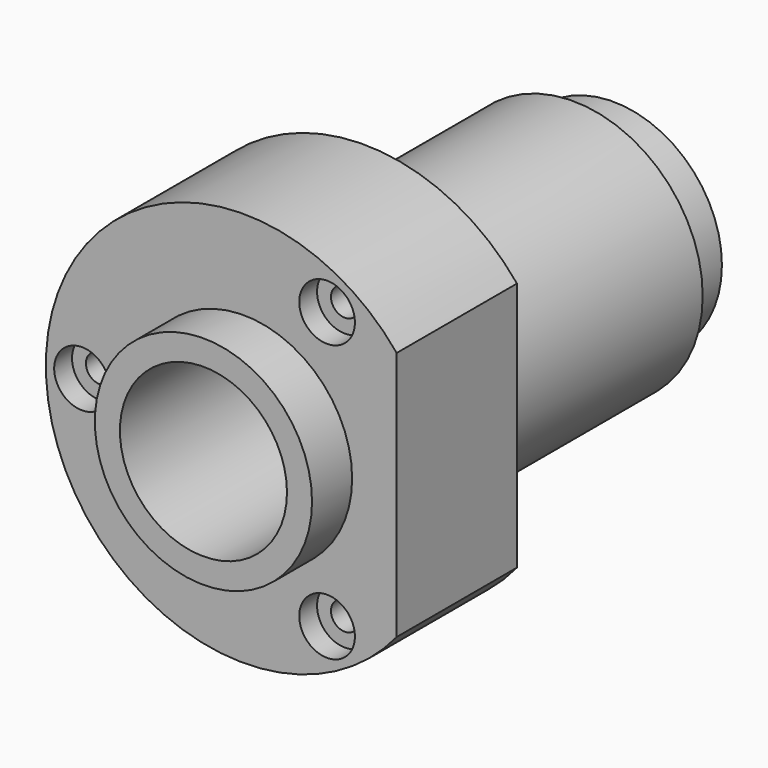
from build123d import *

# Parameters (mm, degrees)
F0_R     = 19.5
F0_R_2   = 15
F1_DEPTH = 9
F2_DEPTH = 83
F0_R_3   = 23.25
F3_DEPTH = 74
F0_R_4   = 5
F0_R_5   = 2.5
F4_DEPTH = 27
F5_DEPTH = 4
F6_DEPTH = 27


with BuildPart() as f1:
    # F0 (on Front) → F1 (new body)
    with BuildSketch(Plane.XZ):
        Circle(F0_R)
        Circle(F0_R_2, mode=Mode.SUBTRACT)
    extrude(amount=F1_DEPTH)

    # F0 (on Front) → F2 (join)
    with BuildSketch(Plane.XZ):
        Circle(F0_R)
        Circle(F0_R_2, mode=Mode.SUBTRACT)
    extrude(amount=-F2_DEPTH)

    # F0 (on Front) → F3 (join)
    with BuildSketch(Plane.XZ):
        Circle(F0_R_3)
        Circle(F0_R, mode=Mode.SUBTRACT)
    extrude(amount=-F3_DEPTH)

    # F0 (on Front) → F4 (join)
    with BuildSketch(Plane.XZ):
        with BuildLine():
            Line((27.5, -22.449944), (27.5, 22.449944))
            ThreePointArc((27.5, 22.449944), (-35.5, 0), (27.5, -22.449944))
        make_face()
        with Locations((15, -24.819347)):
            Circle(F0_R_4, mode=Mode.SUBTRACT)
        with Locations((-29, 0)):
            Circle(F0_R_4, mode=Mode.SUBTRACT)
        Circle(F0_R_3, mode=Mode.SUBTRACT)
        with Locations((15, 24.819347)):
            Circle(F0_R_4, mode=Mode.SUBTRACT)
        with Locations((15, 24.819347)):
            Circle(F0_R_4)
        with Locations((15, 24.819347)):
            Circle(F0_R_5, mode=Mode.SUBTRACT)
        with Locations((15, 24.819347)):
            Circle(F0_R_5)
        with Locations((15, -24.819347)):
            Circle(F0_R_4)
        with Locations((15, -24.819347)):
            Circle(F0_R_5, mode=Mode.SUBTRACT)
        with Locations((15, -24.819347)):
            Circle(F0_R_5)
        with Locations((-29, 0)):
            Circle(F0_R_4)
        with Locations((-29, 0)):
            Circle(F0_R_5, mode=Mode.SUBTRACT)
        with Locations((-29, 0)):
            Circle(F0_R_5)
    extrude(amount=-F4_DEPTH)

    # F0 (on Front) → F5 (cut)
    with BuildSketch(Plane.XZ):
        with Locations((15, -24.819347)):
            Circle(F0_R_4)
        with Locations((15, -24.819347)):
            Circle(F0_R_5, mode=Mode.SUBTRACT)
        with Locations((15, 24.819347)):
            Circle(F0_R_4)
        with Locations((15, 24.819347)):
            Circle(F0_R_5, mode=Mode.SUBTRACT)
        with Locations((-29, 0)):
            Circle(F0_R_4)
        with Locations((-29, 0)):
            Circle(F0_R_5, mode=Mode.SUBTRACT)
    extrude(amount=-F5_DEPTH, mode=Mode.SUBTRACT)

    # F0 (on Front) → F6 (cut)
    with BuildSketch(Plane.XZ):
        with Locations((15, -24.819347)):
            Circle(F0_R_5)
        with Locations((15, 24.819347)):
            Circle(F0_R_5)
        with Locations((-29, 0)):
            Circle(F0_R_5)
    extrude(amount=-F6_DEPTH, mode=Mode.SUBTRACT)


solid = f1.part
